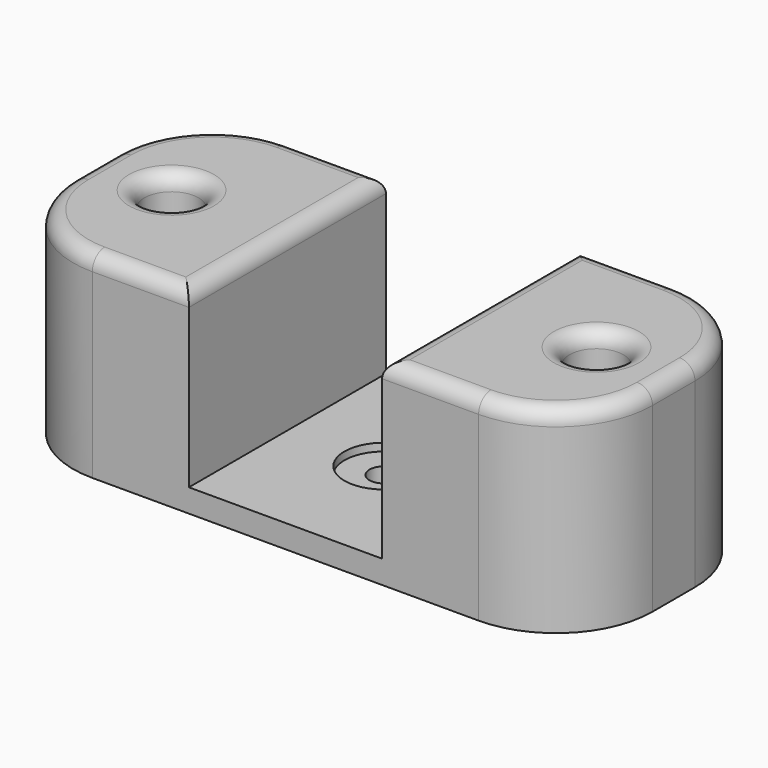
from build123d import *

# Parameters (mm, degrees)
F1_DEPTH = 12.75
F2_R     = 5
F3_R     = 0.75
F4_DEPTH = 1.201
F3_R_2   = 2.05
F5_DEPTH = 0.4
F6_R     = 1.4
F7_DEPTH = 9
F8_R     = 0.8


with BuildPart() as f1:
    # F0 (on Front) → F1 (new body)
    with BuildSketch(Plane.XZ):
        Polygon((5, 0), (0, 0), (-5, 0), (-5, 9), (-15, 9), (-15, -1.2), (0, -1.2), (15, -1.2), (15, 9), (5, 9), align=None)
    extrude(amount=F1_DEPTH)

    # F2
    f2_edges = [f1.edges().sort_by_distance(p)[0] for p in [
        (15, -12.75, 3.9),
        (15, 0, 3.9),
        (-15, -12.75, 3.9),
        (-15, 0, 3.9),
    ]]
    fillet(f2_edges, radius=F2_R)

    # F3 (on face) → F4 (cut, through all)
    with BuildSketch(Plane.XY):
        with Locations((0, -6.375)):
            Circle(F3_R)
    extrude(amount=-F4_DEPTH, mode=Mode.SUBTRACT)

    # F3 (on face) → F5 (cut)
    with BuildSketch(Plane.XY):
        with Locations((0, -6.375)):
            Circle(F3_R_2)
        with Locations((0, -6.375)):
            Circle(F3_R, mode=Mode.SUBTRACT)
    extrude(amount=-F5_DEPTH, mode=Mode.SUBTRACT)

    # F6 (on face) → F7 (cut)
    with BuildSketch(Plane.XY.offset(9)):
        with Locations((11, -6.375)):
            Circle(F6_R)
        with Locations((-11, -6.375)):
            Circle(F6_R)
    extrude(amount=-F7_DEPTH, mode=Mode.SUBTRACT)

    # F8
    f8_edges = [f1.edges().sort_by_distance(p)[0] for p in [
        (-15, -6.375, 9),
        (-13.535534, -1.464466, 9),
        (-13.535534, -11.285534, 9),
        (-7.5, 0, 9),
        (-7.5, -12.75, 9),
        (-5, -6.375, 9),
        (-12.4, -6.375, 9),
        (15, -6.375, 9),
        (13.535534, -1.464466, 9),
        (13.535534, -11.285534, 9),
        (7.5, 0, 9),
        (7.5, -12.75, 9),
        (5, -6.375, 9),
        (9.6, -6.375, 9),
    ]]
    fillet(f8_edges, radius=F8_R)


solid = f1.part
